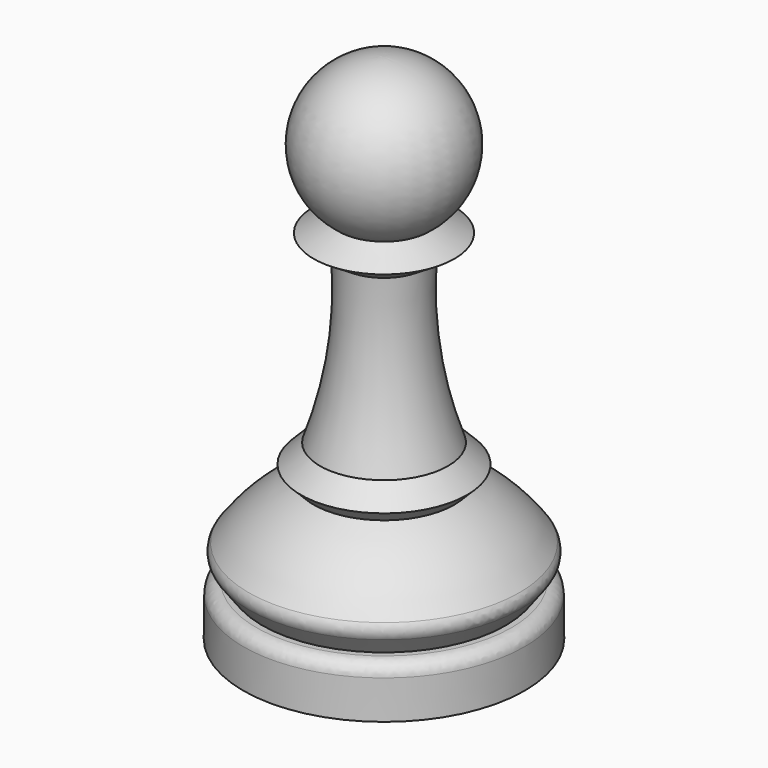
from build123d import *

# Parameters (mm, degrees)
F2_R = 0.5


with BuildPart() as f1:
    # F0 (on Front) → F1 (revolve)
    with BuildSketch(Plane.XZ):
        with BuildLine():
            Line((2.75, 13.955872), (1.75, 14.563301))
            ThreePointArc((1.75, 14.563301), (2.855704, 17.919213), (0, 20))
            Line((0, 20), (0, 2))
            Line((0, 2), (3, 2))
            Line((3, 2), (3, 0))
            Line((3, 0), (5.5, 0))
            Line((5.5, 0), (5.482334, 1.999922))
            Line((5.482334, 1.999922), (4.755146, 2))
            Line((4.755146, 2), (5.5, 3))
            ThreePointArc((5.5, 3), (4.288106, 4.429416), (2.75, 5.5))
            Line((2.75, 5.5), (3.25, 6))
            Line((3.25, 6), (2.5, 6.75))
            ThreePointArc((2.5, 6.75), (1.720948, 9.954022), (1.625, 13.25))
            Line((1.625, 13.25), (2.75, 13.955872))
        make_face()
    revolve(axis=Axis((0, 0, 6.006652), (0, 0, -1)))

    # F2
    f2_edges = [f1.edges().sort_by_distance(p)[0] for p in [
        (-5.5, 0, 3),
        (-5.482334, 0, 1.999922),
    ]]
    fillet(f2_edges, radius=F2_R)


solid = f1.part
